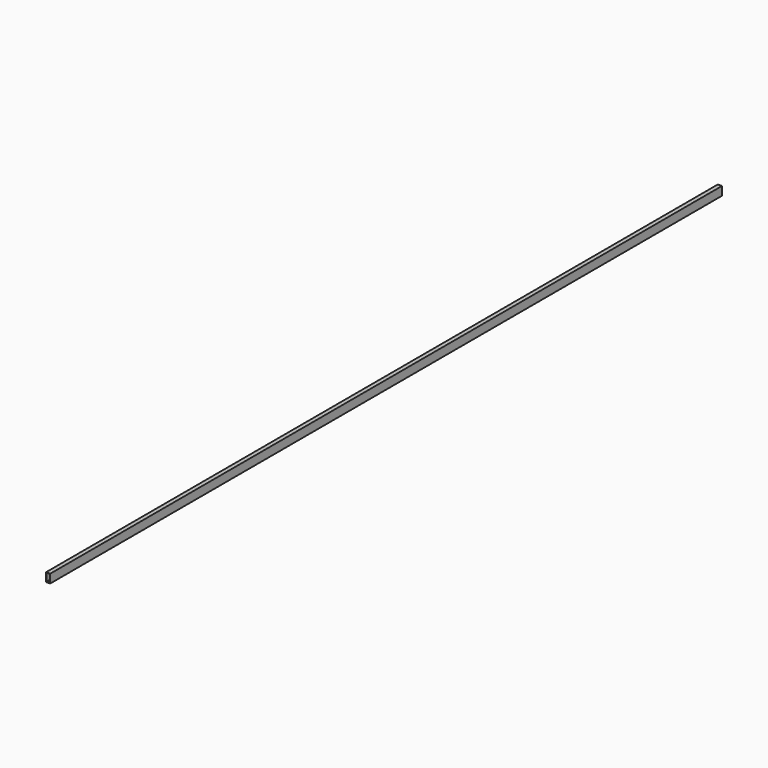
from build123d import *

# Parameters (mm, degrees)
F0_W     = 30
F0_H     = 63
F0_W_2   = 26
F0_H_2   = 59
F1_DEPTH = 3055


with BuildPart() as f1:
    # F0 (on Front) → F1 (new body, symmetric)
    with BuildSketch(Plane.XZ):
        with Locations((0, 31.5)):
            Rectangle(F0_W, F0_H)
        with Locations((0, 31.5)):
            Rectangle(F0_W_2, F0_H_2, mode=Mode.SUBTRACT)
    extrude(amount=F1_DEPTH, both=True)


solid = f1.part
